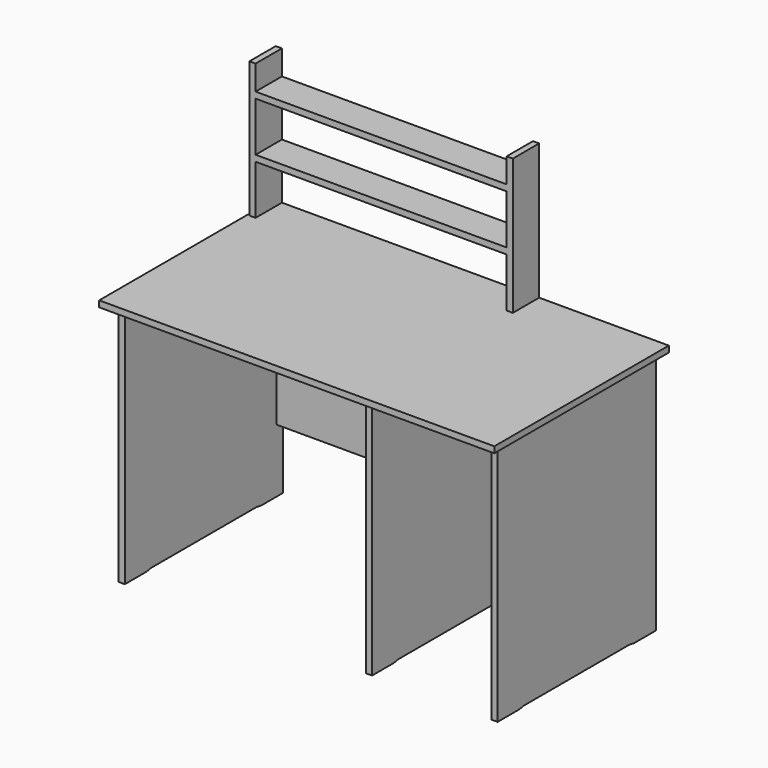
from build123d import *

# Parameters (mm, degrees)
F1_W          = 1219.2
F1_H          = 673.1
F2_DEPTH      = 19.05
F3_W          = 19
F3_H          = 610
F4_DEPTH      = 755.65
F4_DEPTH_BACK = 3
F5_W          = 749.9
F5_H          = 13
F5_W_2        = 374.3
F6_DEPTH      = 560
F6_DEPTH_BACK = 3
F9_W          = 743.9
F9_H          = 38.1
F9_W_2        = 368.3
F10_DEPTH     = 19.05
F11_W         = 774.7
F11_H         = 152.4
F12_DEPTH     = 101.6
F14_DEPTH     = 1194.201


with BuildPart() as f2:
    # F1 (on offset) → F2 (new body)
    with BuildSketch(Plane.XY.offset(774.7)):
        Rectangle(F1_W, F1_H)
    extrude(amount=-F2_DEPTH)


with BuildPart() as f4:
    # F3 (on face) → F4 (new body, two sides)
    with BuildSketch(Plane(origin=(0, 0, 755.65), x_dir=(1, 0, 0), z_dir=(0, 0, -1))) as f4_sk:
        with Locations((-575.1, -12.45)):
            Rectangle(F3_W, F3_H)
        with Locations((187.8, -12.45)):
            Rectangle(F3_W, F3_H)
        with Locations((575.1, -12.45)):
            Rectangle(F3_W, F3_H)
    extrude(amount=F4_DEPTH)
    extrude(f4_sk.sketch, amount=-F4_DEPTH_BACK)


with BuildPart() as f6:
    # F5 (on face) → F6 (new body, two sides)
    with BuildSketch(Plane(origin=(0, 0, 755.65), x_dir=(1, 0, 0), z_dir=(0, 0, -1))) as f6_sk:
        with Locations((-193.65, -298.95)):
            Rectangle(F5_W, F5_H)
        with Locations((381.45, -298.95)):
            Rectangle(F5_W_2, F5_H)
    extrude(amount=F6_DEPTH)
    extrude(f6_sk.sketch, amount=-F6_DEPTH_BACK)


with BuildPart() as f2_1:
    add(f2.part)

    # F7: cut F4, F6
    add(f4.part, mode=Mode.SUBTRACT)
    add(f6.part, mode=Mode.SUBTRACT)


with BuildPart() as f4_1:
    add(f4.part)

    # F8: cut F6
    add(f6.part, mode=Mode.SUBTRACT)

    # F13 (on face) → F14 (cut, through all)
    with BuildSketch(Plane.YZ.offset(584.6)):
        Polygon((215.85, 3.175), (-190.95, 3.175), (-208.95632, 0), (233.85632, 0), align=None)
    extrude(amount=-F14_DEPTH, mode=Mode.SUBTRACT)


with BuildPart() as f10:
    # F9 (on face) → F10 (new body)
    with BuildSketch(Plane(origin=(0, 0, 755.65), x_dir=(1, 0, 0), z_dir=(0, 0, -1))):
        with Locations((-193.65, 273.5)):
            Rectangle(F9_W, F9_H)
        with Locations((381.45, 273.5)):
            Rectangle(F9_W_2, F9_H)
    extrude(amount=F10_DEPTH)


with BuildPart() as f12:
    # F11 (on face) → F12 (new body)
    with BuildSketch(Plane(origin=(0, 336.55, 0), x_dir=(-1, 0, 0), z_dir=(0, 1, 0))):
        Polygon((584.2, 774.7), (603.25, 774.7), (603.25, 1117.6), (603.25, 1193.8), (584.2, 1193.8), (584.2, 1117.6), (-190.5, 1117.6), (-190.5, 1193.8), (-209.55, 1193.8), (-209.55, 1117.6), (-209.55, 774.7), (-190.5, 774.7), (-190.5, 927.1), (584.2, 927.1), align=None)
        with Locations((196.85, 1022.35)):
            Rectangle(F11_W, F11_H, mode=Mode.SUBTRACT)
    extrude(amount=-F12_DEPTH)


solid = Compound([f6.part, f2_1.part, f4_1.part, f10.part, f12.part])
